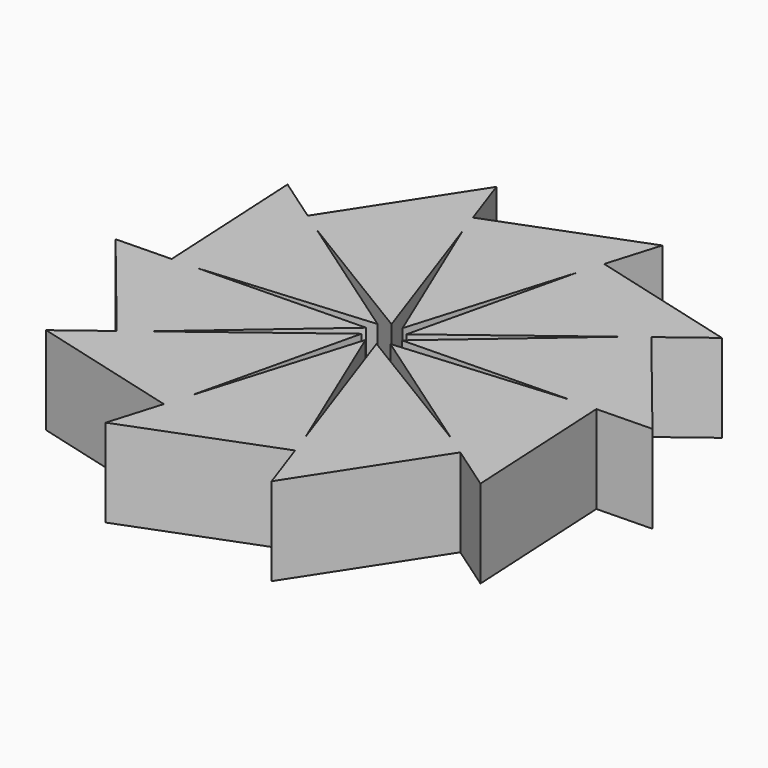
from build123d import *

# Parameters (mm, degrees)
F2_DEPTH = 10


with BuildPart() as f2:
    # F1 (on Top) → F2 (new body)
    with BuildSketch(Plane.XY):
        Polygon((-23.7262713233, -0.5133114427), (-29.9929815414, -0.6488900181), (-18.8932398178, -14.3612300563), (-16.6224315579, -12.6351311898), (-1.9995321028, -0.0432593345), (-20.8745733923, -0.4516157317), align=None)
        Polygon((-24.646239762, 17.1044691702), (-23.7262713233, -0.5133114427), (-20.8745733923, -0.4516157317), (-1.6430826508, 1.1402979447), (-17.1533376915, 11.904401586), (-19.4966736096, 13.5306746951), align=None)
        Polygon((-9.8854720883, 28.324502495), (-19.4966736096, 13.5306746951), (-17.1533376915, 11.904401586), (-0.6590314726, 1.8883001663), (-6.8801100131, 19.7133421136), (-7.8200092446, 22.4064029902), align=None)
        Polygon((8.6512099282, 28.7255385812), (-7.8200092446, 22.4064029902), (-6.8801100131, 19.7133421136), (0.5767473285, 1.9150359054), (6.021085844, 19.9924559857), (6.8436328595, 22.7236469086), align=None)
        Polygon((23.883423796, 18.1543952744), (6.8436328595, 22.7236469086), (6.021085844, 19.9924559857), (1.5922282531, 1.2102930183), (16.6224315579, 12.6351311898), (18.8932398178, 14.3612300563), align=None)
        Polygon((20.8745733923, 0.4516157317), (23.7262713233, 0.5133114427), (29.9929815414, 0.6488900181), (18.8932398178, 14.3612300563), (16.6224315579, 12.6351311898), (1.9995321028, 0.0432593345), align=None)
        Polygon((17.1533376915, -11.904401586), (19.4966736096, -13.5306746951), (24.646239762, -17.1044691702), (23.7262713233, 0.5133114427), (20.8745733923, 0.4516157317), (1.6430826508, -1.1402979447), align=None)
        Polygon((6.8801100131, -19.7133421136), (7.8200092446, -22.4064029902), (9.8854720883, -28.324502495), (19.4966736096, -13.5306746951), (17.1533376915, -11.904401586), (0.6590314726, -1.8883001663), align=None)
        Polygon((-6.021085844, -19.9924559857), (-6.8436328595, -22.7236469086), (-8.6512099282, -28.7255385812), (7.8200092446, -22.4064029902), (6.8801100131, -19.7133421136), (-0.5767473285, -1.9150359054), align=None)
        Polygon((-16.6224315579, -12.6351311898), (-18.8932398178, -14.3612300563), (-23.883423796, -18.1543952744), (-6.8436328595, -22.7236469086), (-6.021085844, -19.9924559857), (-1.5922282531, -1.2102930183), align=None)
    extrude(amount=F2_DEPTH)


solid = f2.part
